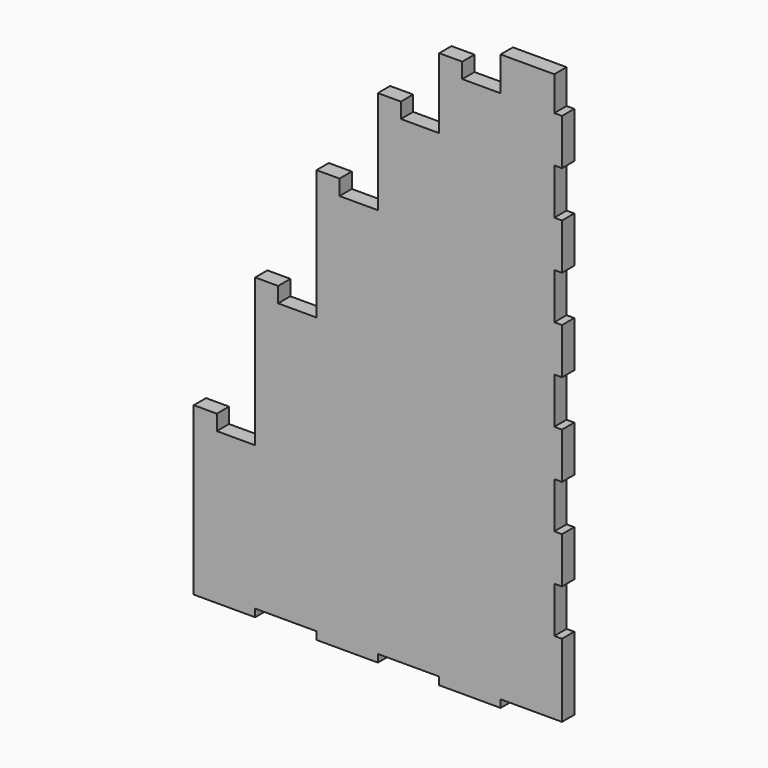
from build123d import *

# Parameters (mm, degrees)
F0_W     = 101.6
F0_H     = 12.7
F0_W_2   = 38.1
F0_H_2   = 25.4
F0_W_3   = 12.7
F0_H_3   = 121.158
F0_H_4   = 76.2
F1_DEPTH = 25.4


with BuildPart() as f1:
    # F0 (on Front) → F1 (new body)
    with BuildSketch(Plane.XZ):
        Polygon((-252.773791, 176.381102), (-252.773791, -61.616898), (-151.173791, -61.616898), (-151.173791, 176.381102), (-214.673791, 176.381102), align=None)
        with Locations((-201.973791, -67.966898)):
            Rectangle(F0_W, F0_H)
        Polygon((-151.173791, 176.381102), (-151.173791, -61.616898), (-49.573791, -61.616898), (-49.573791, 395.583102), (-113.073791, 395.583102), (-151.173791, 395.583102), align=None)
        with Locations((-233.723791, 189.081102)):
            Rectangle(F0_W_2, F0_H_2)
        Polygon((-49.573791, 395.583102), (-49.573791, -61.616898), (52.026209, -61.616898), (52.026209, 585.067102), (-11.473791, 585.067102), (-49.573791, 585.067102), align=None)
        with Locations((1.226209, -67.966898)):
            Rectangle(F0_W, F0_H)
        Polygon((52.026209, 585.067102), (52.026209, -61.616898), (153.626209, -61.616898), (153.626209, 730.355102), (90.126209, 730.355102), (52.026209, 730.355102), align=None)
        with Locations((-132.123791, 408.283102)):
            Rectangle(F0_W_2, F0_H_2)
        Polygon((153.626209, 730.355102), (153.626209, -61.616898), (255.226209, -61.616898), (255.226209, 821.541102), (191.726209, 821.541102), (153.626209, 821.541102), align=None)
        with Locations((204.426209, -67.966898)):
            Rectangle(F0_W, F0_H)
        with Locations((-30.523791, 597.767102)):
            Rectangle(F0_W_2, F0_H_2)
        Polygon((255.226209, 821.541102), (255.226209, -61.616898), (344.126209, -61.616898), (344.126209, 59.541102), (344.126209, 135.741102), (344.126209, 211.941102), (344.126209, 288.141102), (344.126209, 364.341102), (344.126209, 440.541102), (344.126209, 516.741102), (344.126209, 592.941102), (344.126209, 669.141102), (344.126209, 745.341102), (344.126209, 821.541102), (344.126209, 852.783102), (293.326209, 852.783102), (255.226209, 852.783102), align=None)
        with Locations((71.076209, 743.055102)):
            Rectangle(F0_W_2, F0_H_2)
        with Locations((350.476209, -1.037898)):
            Rectangle(F0_W_3, F0_H_3)
        with Locations((172.676209, 834.241102)):
            Rectangle(F0_W_2, F0_H_2)
        Polygon((255.226209, 878.183102), (255.226209, 852.783102), (293.326209, 852.783102), (344.126209, 852.783102), (344.126209, 878.183102), (293.326209, 878.183102), align=None)
        with Locations((350.476209, 173.841102)):
            Rectangle(F0_W_3, F0_H_4)
        with Locations((350.476209, 783.441102)):
            Rectangle(F0_W_3, F0_H_4)
        with Locations((350.476209, 326.241102)):
            Rectangle(F0_W_3, F0_H_4)
        with Locations((350.476209, 631.041102)):
            Rectangle(F0_W_3, F0_H_4)
        with Locations((350.476209, 478.641102)):
            Rectangle(F0_W_3, F0_H_4)
    extrude(amount=F1_DEPTH)


solid = f1.part
